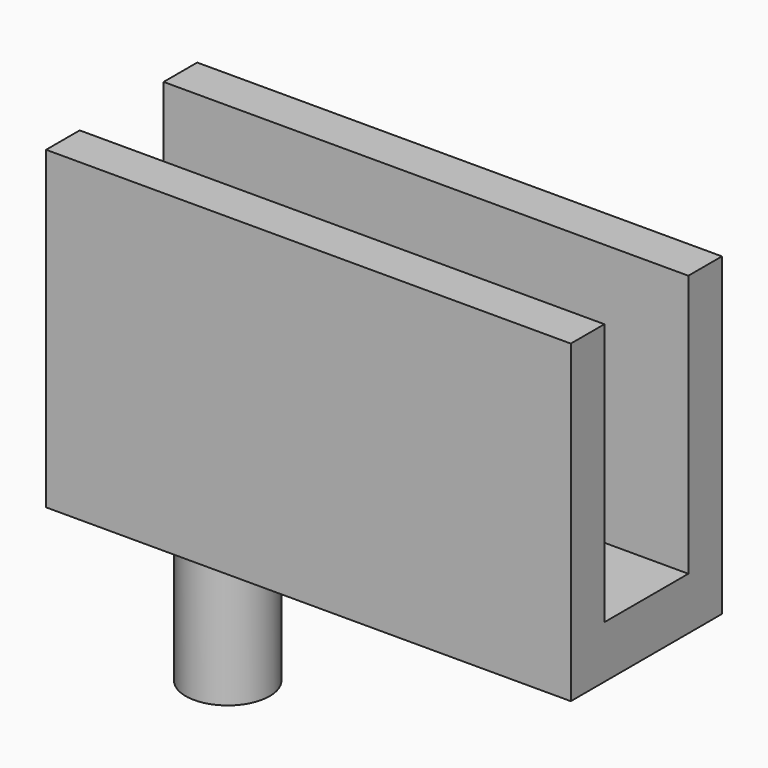
from build123d import *

# Parameters (mm, degrees)
F0_R     = 4
F1_DEPTH = 15
F2_W     = 50
F2_H     = 18
F2_R     = 4
F3_DEPTH = 30
F4_W     = 50
F4_H     = 25
F5_DEPTH = 5


with BuildPart() as f1:
    # F0 (on Top) → F1 (new body)
    with BuildSketch(Plane.XY):
        with Locations((0, 0.135727)):
            Circle(F0_R)
    extrude(amount=F1_DEPTH)

    # F2 (on face) → F3 (join)
    with BuildSketch(Plane.XY.offset(15)):
        with Locations((15, 0)):
            Rectangle(F2_W, F2_H)
        with Locations((0, 0.135727)):
            Circle(F2_R, mode=Mode.SUBTRACT)
        with Locations((0, 0.135727)):
            Circle(F2_R)
    extrude(amount=F3_DEPTH)

    # F4 (on Front) → F5 (cut, symmetric)
    with BuildSketch(Plane.XZ):
        with Locations((15, 32.5)):
            Rectangle(F4_W, F4_H)
    extrude(amount=F5_DEPTH, both=True, mode=Mode.SUBTRACT)


solid = f1.part
